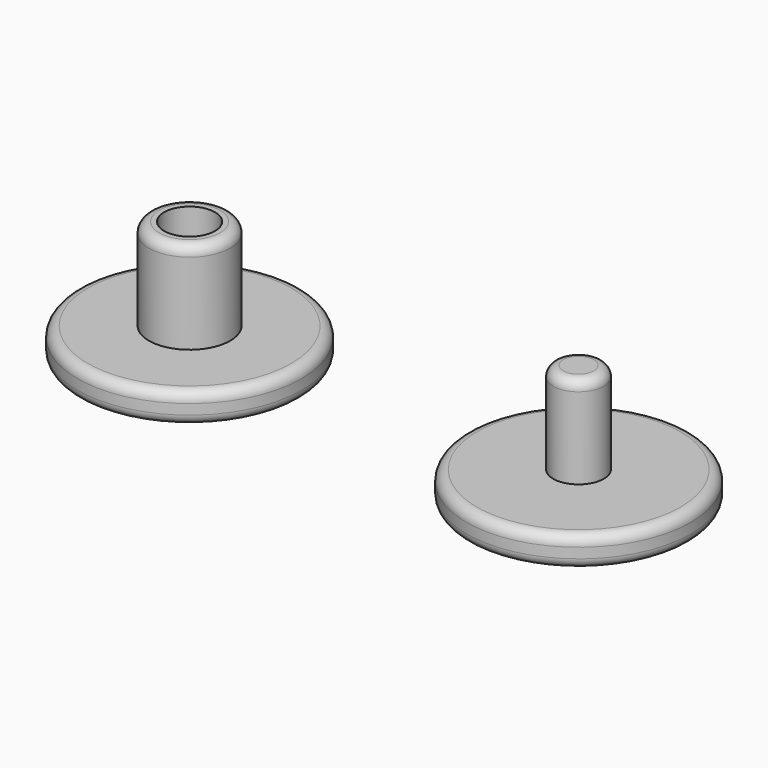
from build123d import *

# Parameters (mm, degrees)
F0_R     = 11
F1_DEPTH = 3
F3_R     = 3.99
F3_R_2   = 2.5
F4_DEPTH = 9
F3_R_3   = 2.49
F5_R     = 1
F5_2_R   = 1


with BuildPart() as f1:
    # F0 (on Top) → F1 (new body)
    with BuildSketch(Plane.XY):
        with Locations((38.1962135434, 0)):
            Circle(F0_R)
    extrude(amount=F1_DEPTH)

    # F3 (on mid) → F4, piece 2 (join)
    with BuildSketch(Plane.XY.offset(3)):
        with Locations((38.1804183125, 0)):
            Circle(F3_R_3)
    extrude(amount=F4_DEPTH)

    # F5#2
    f5_2_edges = [f1.edges().sort_by_distance(p)[0] for p in [
        (27.196214, 0, 3),
        (49.196214, 0, 1.5),
        (27.196214, 0, 0),
        (35.690418, 0, 12),
    ]]
    fillet(f5_2_edges, radius=F5_2_R)


with BuildPart() as f1b:
    # F0 (on Top) → F1, piece 2 (new body)
    with BuildSketch(Plane.XY):
        Circle(F0_R)
    extrude(amount=F1_DEPTH)

    # F3 (on mid) → F4 (join)
    with BuildSketch(Plane.XY.offset(3)):
        Circle(F3_R)
        Circle(F3_R_2, mode=Mode.SUBTRACT)
    extrude(amount=F4_DEPTH)

    # F5
    f5_edges = [f1b.edges().sort_by_distance(p)[0] for p in [
        (-11, 0, 0),
        (-11, 0, 3),
        (-3.99, 0, 12),
    ]]
    fillet(f5_edges, radius=F5_R)


solid = Compound([f1.part, f1b.part])
